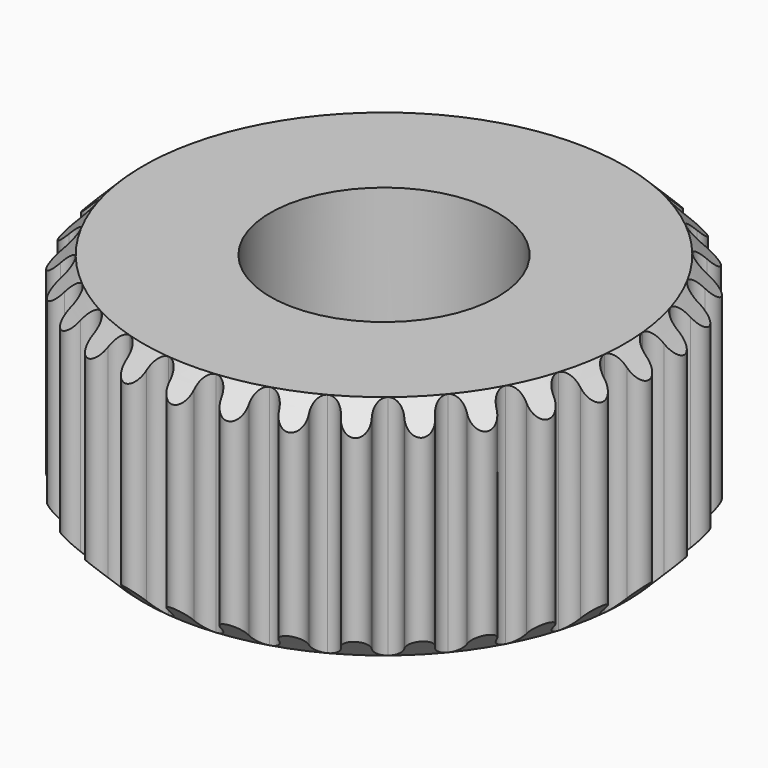
from build123d import *

# Parameters (mm, degrees)
F1_R     = 3
F2_DEPTH = 6


with BuildPart() as f2:
    # F1 (on Top) → F2 (new body)
    with BuildSketch(Plane.XY):
        with BuildLine():
            ThreePointArc((0.6224088411, 6.3194230144), (0.4041195734, 6.4305254226), (0.3190381339, 6.6602102024))
            ThreePointArc((0.3190381339, 6.6602102024), (0, 6.985), (-0.3190381339, 6.6602102024))
            ThreePointArc((-0.3190381339, 6.6602102024), (-0.4041195734, 6.4305254226), (-0.6224088411, 6.3194230144))
            ThreePointArc((-0.6224088411, 6.3194230144), (-0.8581787463, 6.3858044974), (-0.9864346475, 6.5944773832))
            ThreePointArc((-0.9864346475, 6.5944773832), (-1.3627058993, 6.8507851836), (-1.6122504587, 6.4699948787))
            ThreePointArc((-1.6122504587, 6.4699948787), (-1.6508878046, 6.228124862), (-1.8433077006, 6.0765711319))
            ThreePointArc((-1.8433077006, 6.0765711319), (-2.087497738, 6.0956806866), (-2.2539992986, 6.2753224964))
            ThreePointArc((-2.2539992986, 6.2753224964), (-2.6730437751, 6.4532985346), (-2.8435049025, 6.0311412801))
            ThreePointArc((-2.8435049025, 6.0311412801), (-2.8342133432, 5.7863809557), (-2.9933692788, 5.6002000286))
            ThreePointArc((-2.9933692788, 5.6002000286), (-3.2365953624, 5.5713032856), (-3.4349440207, 5.7150104852))
            ThreePointArc((-3.4349440207, 5.7150104852), (-3.8806580776, 5.8078152419), (-3.9654850476, 5.3605143045))
            ThreePointArc((-3.9654850476, 5.3605143045), (-3.9086216525, 5.1222696744), (-4.0283973544, 4.9086163789))
            ThreePointArc((-4.0283973544, 4.9086163789), (-4.2613124421, 4.8328238237), (-4.4838857704, 4.9350738262))
            ThreePointArc((-4.4838857704, 4.9350738262), (-4.9391408666, 4.9391408666), (-4.9350738262, 4.4838857704))
            ThreePointArc((-4.9350738262, 4.4838857704), (-4.8328238237, 4.2613124421), (-4.9086163789, 4.0283973544))
            ThreePointArc((-4.9086163789, 4.0283973544), (-5.1222696744, 3.9086216525), (-5.3605143045, 3.9654850476))
            ThreePointArc((-5.3605143045, 3.9654850476), (-5.8078152419, 3.8806580776), (-5.7150104852, 3.4349440207))
            ThreePointArc((-5.7150104852, 3.4349440207), (-5.5713032856, 3.2365953624), (-5.6002000286, 2.9933692788))
            ThreePointArc((-5.6002000286, 2.9933692788), (-5.7863809557, 2.8342133432), (-6.0311412801, 2.8435049025))
            ThreePointArc((-6.0311412801, 2.8435049025), (-6.4532985346, 2.6730437751), (-6.2753224964, 2.2539992986))
            ThreePointArc((-6.2753224964, 2.2539992986), (-6.0956806866, 2.087497738), (-6.0765711319, 1.8433077006))
            ThreePointArc((-6.0765711319, 1.8433077006), (-6.228124862, 1.6508878046), (-6.4699948787, 1.6122504587))
            ThreePointArc((-6.4699948787, 1.6122504587), (-6.8507851836, 1.3627058993), (-6.5944773832, 0.9864346475))
            ThreePointArc((-6.5944773832, 0.9864346475), (-6.3858044974, 0.8581787463), (-6.3194230144, 0.6224088411))
            ThreePointArc((-6.3194230144, 0.6224088411), (-6.4305254226, 0.4041195734), (-6.6602102024, 0.3190381339))
            ThreePointArc((-6.6602102024, 0.3190381339), (-6.985, 0), (-6.6602102024, -0.3190381339))
            ThreePointArc((-6.6602102024, -0.3190381339), (-6.4305254226, -0.4041195734), (-6.3194230144, -0.6224088411))
            ThreePointArc((-6.3194230144, -0.6224088411), (-6.3858044974, -0.8581787463), (-6.5944773832, -0.9864346475))
            ThreePointArc((-6.5944773832, -0.9864346475), (-6.8507851836, -1.3627058993), (-6.4699948787, -1.6122504587))
            ThreePointArc((-6.4699948787, -1.6122504587), (-6.228124862, -1.6508878046), (-6.0765711319, -1.8433077006))
            ThreePointArc((-6.0765711319, -1.8433077006), (-6.0956806866, -2.087497738), (-6.2753224964, -2.2539992986))
            ThreePointArc((-6.2753224964, -2.2539992986), (-6.4532985346, -2.6730437751), (-6.0311412801, -2.8435049025))
            ThreePointArc((-6.0311412801, -2.8435049025), (-5.7863809557, -2.8342133432), (-5.6002000286, -2.9933692788))
            ThreePointArc((-5.6002000286, -2.9933692788), (-5.5713032856, -3.2365953624), (-5.7150104852, -3.4349440207))
            ThreePointArc((-5.7150104852, -3.4349440207), (-5.8078152419, -3.8806580776), (-5.3605143045, -3.9654850476))
            ThreePointArc((-5.3605143045, -3.9654850476), (-5.1222696744, -3.9086216525), (-4.9086163789, -4.0283973544))
            ThreePointArc((-4.9086163789, -4.0283973544), (-4.8328238237, -4.2613124421), (-4.9350738262, -4.4838857704))
            ThreePointArc((-4.9350738262, -4.4838857704), (-4.9391408666, -4.9391408666), (-4.4838857704, -4.9350738262))
            ThreePointArc((-4.4838857704, -4.9350738262), (-4.2613124421, -4.8328238237), (-4.0283973544, -4.9086163789))
            ThreePointArc((-4.0283973544, -4.9086163789), (-3.9086216525, -5.1222696744), (-3.9654850476, -5.3605143045))
            ThreePointArc((-3.9654850476, -5.3605143045), (-3.8806580776, -5.8078152419), (-3.4349440207, -5.7150104852))
            ThreePointArc((-3.4349440207, -5.7150104852), (-3.2365953624, -5.5713032856), (-2.9933692788, -5.6002000286))
            ThreePointArc((-2.9933692788, -5.6002000286), (-2.8342133432, -5.7863809557), (-2.8435049025, -6.0311412801))
            ThreePointArc((-2.8435049025, -6.0311412801), (-2.6730437751, -6.4532985346), (-2.2539992986, -6.2753224964))
            ThreePointArc((-2.2539992986, -6.2753224964), (-2.087497738, -6.0956806866), (-1.8433077006, -6.0765711319))
            ThreePointArc((-1.8433077006, -6.0765711319), (-1.6508878046, -6.228124862), (-1.6122504587, -6.4699948787))
            ThreePointArc((-1.6122504587, -6.4699948787), (-1.3627058993, -6.8507851836), (-0.9864346475, -6.5944773832))
            ThreePointArc((-0.9864346475, -6.5944773832), (-0.8581787463, -6.3858044974), (-0.6224088411, -6.3194230144))
            ThreePointArc((-0.6224088411, -6.3194230144), (-0.4041195734, -6.4305254226), (-0.3190381339, -6.6602102024))
            ThreePointArc((-0.3190381339, -6.6602102024), (0, -6.985), (0.3190381339, -6.6602102024))
            ThreePointArc((0.3190381339, -6.6602102024), (0.4041195734, -6.4305254226), (0.6224088411, -6.3194230144))
            ThreePointArc((0.6224088411, -6.3194230144), (0.8581787463, -6.3858044974), (0.9864346475, -6.5944773832))
            ThreePointArc((0.9864346475, -6.5944773832), (1.3627058993, -6.8507851836), (1.6122504587, -6.4699948787))
            ThreePointArc((1.6122504587, -6.4699948787), (1.6508878046, -6.228124862), (1.8433077006, -6.0765711319))
            ThreePointArc((1.8433077006, -6.0765711319), (2.087497738, -6.0956806866), (2.2539992986, -6.2753224964))
            ThreePointArc((2.2539992986, -6.2753224964), (2.6730437751, -6.4532985346), (2.8435049025, -6.0311412801))
            ThreePointArc((2.8435049025, -6.0311412801), (2.8342133432, -5.7863809557), (2.9933692788, -5.6002000286))
            ThreePointArc((2.9933692788, -5.6002000286), (3.2365953624, -5.5713032856), (3.4349440207, -5.7150104852))
            ThreePointArc((3.4349440207, -5.7150104852), (3.8806580776, -5.8078152419), (3.9654850476, -5.3605143045))
            ThreePointArc((3.9654850476, -5.3605143045), (3.9086216525, -5.1222696744), (4.0283973544, -4.9086163789))
            ThreePointArc((4.0283973544, -4.9086163789), (4.2613124421, -4.8328238237), (4.4838857704, -4.9350738262))
            ThreePointArc((4.4838857704, -4.9350738262), (4.9391408666, -4.9391408666), (4.9350738262, -4.4838857704))
            ThreePointArc((4.9350738262, -4.4838857704), (4.8328238237, -4.2613124421), (4.9086163789, -4.0283973544))
            ThreePointArc((4.9086163789, -4.0283973544), (5.1222696744, -3.9086216525), (5.3605143045, -3.9654850476))
            ThreePointArc((5.3605143045, -3.9654850476), (5.8078152419, -3.8806580776), (5.7150104852, -3.4349440207))
            ThreePointArc((5.7150104852, -3.4349440207), (5.5713032856, -3.2365953624), (5.6002000286, -2.9933692788))
            ThreePointArc((5.6002000286, -2.9933692788), (5.7863809557, -2.8342133432), (6.0311412801, -2.8435049025))
            ThreePointArc((6.0311412801, -2.8435049025), (6.4532985346, -2.6730437751), (6.2753224964, -2.2539992986))
            ThreePointArc((6.2753224964, -2.2539992986), (6.0956806866, -2.087497738), (6.0765711319, -1.8433077006))
            ThreePointArc((6.0765711319, -1.8433077006), (6.228124862, -1.6508878046), (6.4699948787, -1.6122504587))
            ThreePointArc((6.4699948787, -1.6122504587), (6.8507851836, -1.3627058993), (6.5944773832, -0.9864346475))
            ThreePointArc((6.5944773832, -0.9864346475), (6.3858044974, -0.8581787463), (6.3194230144, -0.6224088411))
            ThreePointArc((6.3194230144, -0.6224088411), (6.4305254226, -0.4041195734), (6.6602102024, -0.3190381339))
            ThreePointArc((6.6602102024, -0.3190381339), (6.985, 0), (6.6602102024, 0.3190381339))
            ThreePointArc((6.6602102024, 0.3190381339), (6.4305254226, 0.4041195734), (6.3194230144, 0.6224088411))
            ThreePointArc((6.3194230144, 0.6224088411), (6.3858044974, 0.8581787463), (6.5944773832, 0.9864346475))
            ThreePointArc((6.5944773832, 0.9864346475), (6.8507851836, 1.3627058993), (6.4699948787, 1.6122504587))
            ThreePointArc((6.4699948787, 1.6122504587), (6.228124862, 1.6508878046), (6.0765711319, 1.8433077006))
            ThreePointArc((6.0765711319, 1.8433077006), (6.0956806866, 2.087497738), (6.2753224964, 2.2539992986))
            ThreePointArc((6.2753224964, 2.2539992986), (6.4532985346, 2.6730437751), (6.0311412801, 2.8435049025))
            ThreePointArc((6.0311412801, 2.8435049025), (5.7863809557, 2.8342133432), (5.6002000286, 2.9933692788))
            ThreePointArc((5.6002000286, 2.9933692788), (5.5713032856, 3.2365953624), (5.7150104852, 3.4349440207))
            ThreePointArc((5.7150104852, 3.4349440207), (5.8078152419, 3.8806580776), (5.3605143045, 3.9654850476))
            ThreePointArc((5.3605143045, 3.9654850476), (5.1222696744, 3.9086216525), (4.9086163789, 4.0283973544))
            ThreePointArc((4.9086163789, 4.0283973544), (4.8328238237, 4.2613124421), (4.9350738262, 4.4838857704))
            ThreePointArc((4.9350738262, 4.4838857704), (4.9391408666, 4.9391408666), (4.4838857704, 4.9350738262))
            ThreePointArc((4.4838857704, 4.9350738262), (4.2613124421, 4.8328238237), (4.0283973544, 4.9086163789))
            ThreePointArc((4.0283973544, 4.9086163789), (3.9086216525, 5.1222696744), (3.9654850476, 5.3605143045))
            ThreePointArc((3.9654850476, 5.3605143045), (3.8806580776, 5.8078152419), (3.4349440207, 5.7150104852))
            ThreePointArc((3.4349440207, 5.7150104852), (3.2365953624, 5.5713032856), (2.9933692788, 5.6002000286))
            ThreePointArc((2.9933692788, 5.6002000286), (2.8342133432, 5.7863809557), (2.8435049025, 6.0311412801))
            ThreePointArc((2.8435049025, 6.0311412801), (2.6730437751, 6.4532985346), (2.2539992986, 6.2753224964))
            ThreePointArc((2.2539992986, 6.2753224964), (2.087497738, 6.0956806866), (1.8433077006, 6.0765711319))
            ThreePointArc((1.8433077006, 6.0765711319), (1.6508878046, 6.228124862), (1.6122504587, 6.4699948787))
            ThreePointArc((1.6122504587, 6.4699948787), (1.3627058993, 6.8507851836), (0.9864346475, 6.5944773832))
            ThreePointArc((0.9864346475, 6.5944773832), (0.8581787463, 6.3858044974), (0.6224088411, 6.3194230144))
        make_face()
        Circle(F1_R, mode=Mode.SUBTRACT)
    extrude(amount=F2_DEPTH)

    # F3 (on Right) → F4 (revolve, cut)
    with BuildSketch(Plane.YZ):
        Polygon((6.35, 0), (6.985, 0), (6.985, 0.635), align=None)
        Polygon((6.985, 6), (6.35, 6), (6.985, 5.365), align=None)
    revolve(axis=Axis((0, 0, 6), (0, 0, 1)), mode=Mode.SUBTRACT)


solid = f2.part
